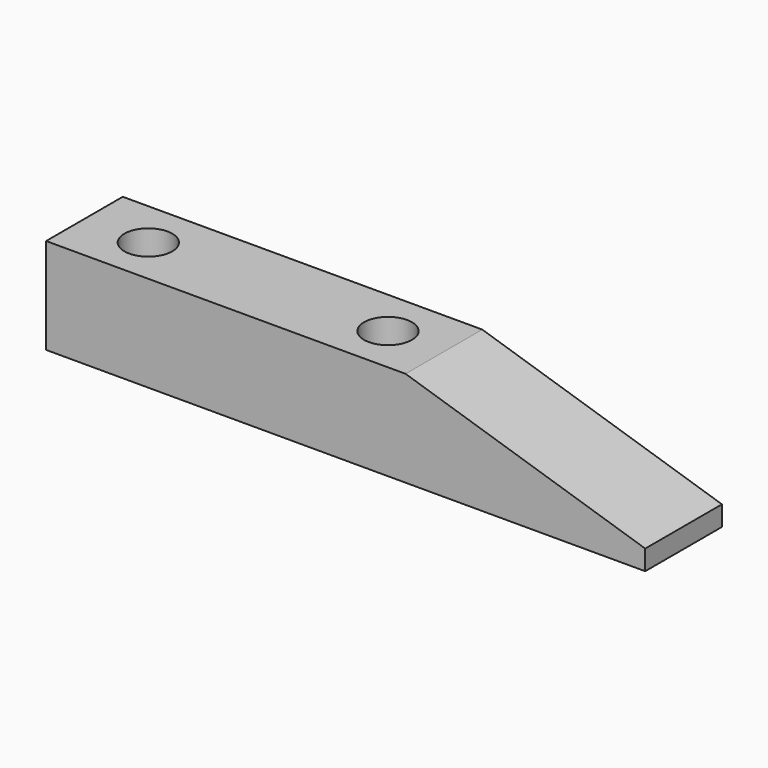
from build123d import *

# Parameters (mm, degrees)
F1_DEPTH = 12
F2_R     = 3
F3_DEPTH = 12.001


with BuildPart() as f1:
    # F0 (on Front) → F1 (new body)
    with BuildSketch(Plane.XZ):
        Polygon((-30.699901, 0), (-30.699901, -12), (44.300099, -12), (44.300099, -9.5), (14.300099, 0), align=None)
    extrude(amount=F1_DEPTH)

    # F2 (on face) → F3 (cut, through all)
    with BuildSketch(Plane.XY):
        with Locations((-22.699901, -6)):
            Circle(F2_R)
        with Locations((7.300099, -6)):
            Circle(F2_R)
    extrude(amount=-F3_DEPTH, mode=Mode.SUBTRACT)


solid = f1.part
